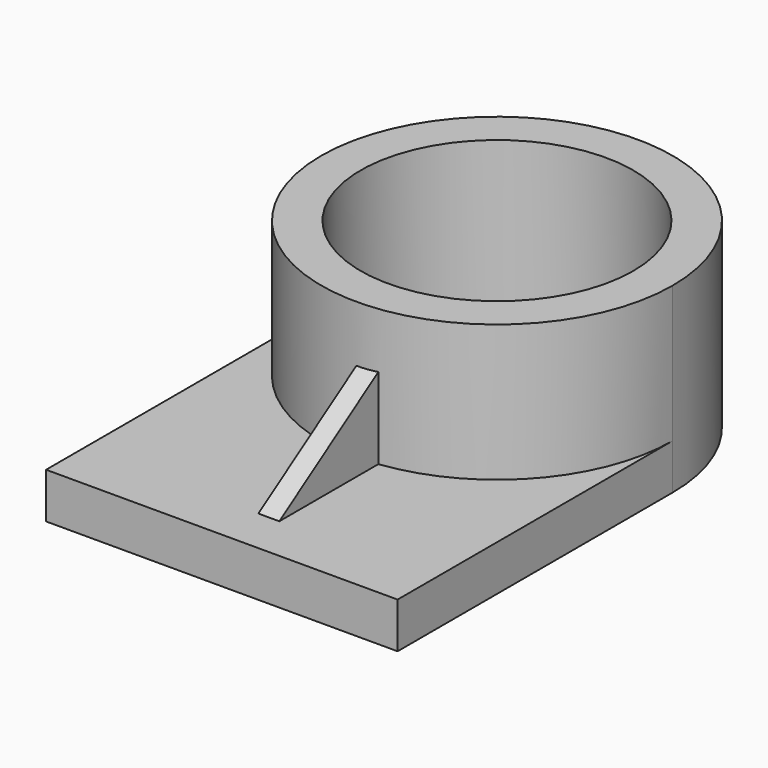
from build123d import *

# Parameters (mm, degrees)
F1_DEPTH = 12.7
F3_DEPTH = 50.8
F4_R     = 38.0054760492
F5_DEPTH = 50.801
F9_DEPTH = 5.842


with BuildPart() as f1:
    # F0 (on Top) → F1 (new body)
    with BuildSketch(Plane.XY):
        with BuildLine():
            Line((-49.0042343736, -47.9455031455), (49.0042343736, -47.9455031455))
            Line((49.0042343736, -47.9455031455), (49.0042343736, 47.9455031455))
            ThreePointArc((49.0042343736, 47.9455031455), (0, -1.0587312281), (-49.0042343736, 47.9455031455))
            Line((-49.0042343736, 47.9455031455), (-49.0042343736, -47.9455031455))
        make_face()
    extrude(amount=F1_DEPTH)

    # F2 (on Top) → F3 (join)
    with BuildSketch(Plane.XY):
        with BuildLine():
            ThreePointArc((-49.0042343736, 47.9455031455), (0, -1.0587312281), (49.0042343736, 47.9455031455))
            ThreePointArc((49.0042343736, 47.9455031455), (0, 96.949737519), (-49.0042343736, 47.9455031455))
        make_face()
    extrude(amount=F3_DEPTH)

    # F4 (on face) → F5 (cut, through all)
    with BuildSketch(Plane.XY.offset(50.8)):
        with Locations((0, 47.9455031455)):
            Circle(F4_R)
    extrude(amount=-F5_DEPTH, mode=Mode.SUBTRACT)

    # F8 (on plane+point) → F9 (join)
    with BuildSketch(Plane.YZ):
        Polygon((0, 35.7907004654), (-35.212572664, 12.7), (0, 12.7), align=None)
    extrude(amount=F9_DEPTH)


solid = f1.part
